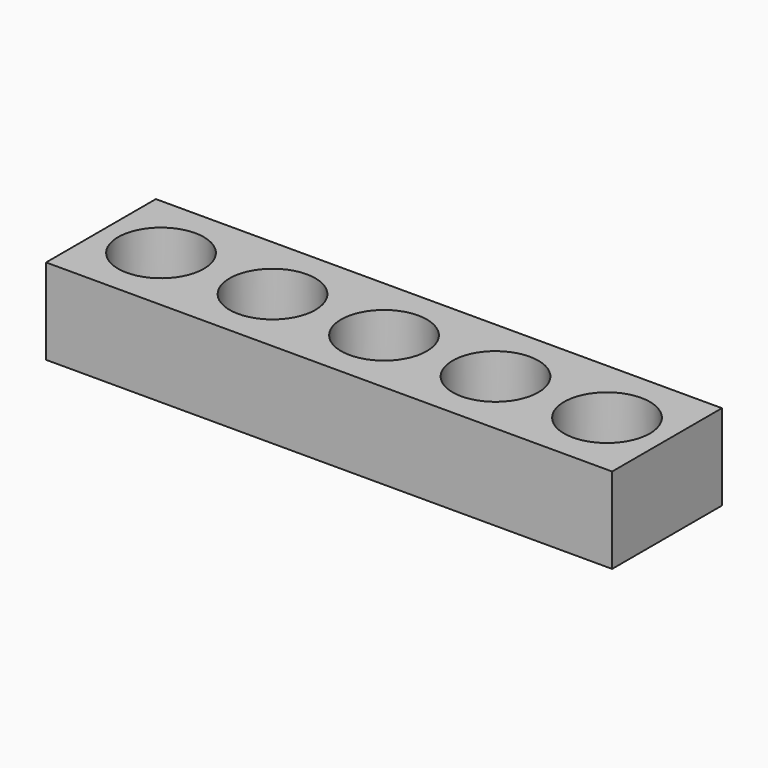
from build123d import *

# Parameters (mm, degrees)
F0_W     = 209.55
F0_H     = 31.75
F1_DEPTH = 50.8
F2_R     = 15.875
F3_DEPTH = 19.05


with BuildPart() as f1:
    # F0 (on Front) → F1 (new body)
    with BuildSketch(Plane.XZ):
        with Locations((28.688948, 15.875)):
            Rectangle(F0_W, F0_H)
    extrude(amount=F1_DEPTH)

    # F2 (on face) → F3 (cut)
    with BuildSketch(Plane.XY.offset(31.75)):
        with Locations((-53.861052, -25.4)):
            Circle(F2_R)
        with Locations((-12.586052, -25.4)):
            Circle(F2_R)
        with Locations((28.688948, -25.4)):
            Circle(F2_R)
        with Locations((69.963948, -25.4)):
            Circle(F2_R)
        with Locations((111.238948, -25.4)):
            Circle(F2_R)
    extrude(amount=-F3_DEPTH, mode=Mode.SUBTRACT)


solid = f1.part
